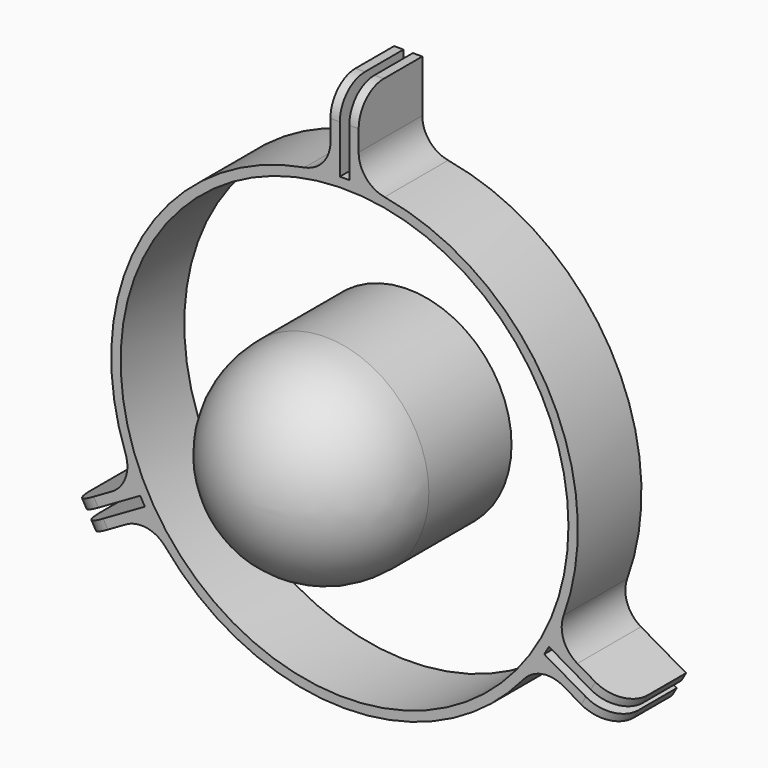
from build123d import *

# Parameters (mm, degrees)
F0_R     = 35.75
F1_DEPTH = 12.7
F2_R     = 5
F3_R     = 5
F4_R     = 16.5
F5_DEPTH = 33
F6_R     = 16.5
F7_T     = -1.5


with BuildPart() as f1:
    # F0 (on Front) → F1 (new body)
    with BuildSketch(Plane.XZ):
        with BuildLine():
            Line((-2.25, 49.942449), (-2.25, 37.181985))
            ThreePointArc((-2.25, 37.181985), (-32.259446, 18.625), (-33.325543, -16.642435))
            Line((-33.325543, -16.642435), (-44.376429, -23.022667))
            Line((-44.376429, -23.022667), (-43.626429, -24.321705))
            Line((-43.626429, -24.321705), (-32.627907, -17.971705))
            ThreePointArc((-32.627907, -17.971705), (-32.259446, -18.625), (-31.877907, -19.270744))
            Line((-31.877907, -19.270744), (-42.876429, -25.620744))
            Line((-42.876429, -25.620744), (-42.126429, -26.919782))
            Line((-42.126429, -26.919782), (-31.075543, -20.53955))
            ThreePointArc((-31.075543, -20.53955), (0, -37.25), (31.075543, -20.53955))
            Line((31.075543, -20.53955), (42.126429, -26.919782))
            Line((42.126429, -26.919782), (42.876429, -25.620744))
            Line((42.876429, -25.620744), (31.877907, -19.270744))
            ThreePointArc((31.877907, -19.270744), (32.259446, -18.625), (32.627907, -17.971705))
            Line((32.627907, -17.971705), (43.626429, -24.321705))
            Line((43.626429, -24.321705), (44.376429, -23.022667))
            Line((44.376429, -23.022667), (33.325543, -16.642435))
            ThreePointArc((33.325543, -16.642435), (32.259446, 18.625), (2.25, 37.181985))
            Line((2.25, 37.181985), (2.25, 49.942449))
            Line((2.25, 49.942449), (0.75, 49.942449))
            Line((0.75, 49.942449), (0.75, 37.242449))
            ThreePointArc((0.75, 37.242449), (0, 37.25), (-0.75, 37.242449))
            Line((-0.75, 37.242449), (-0.75, 49.942449))
            Line((-0.75, 49.942449), (-2.25, 49.942449))
        make_face()
        Circle(F0_R, mode=Mode.SUBTRACT)
    extrude(amount=F1_DEPTH)

    # F2
    f2_edges = [f1.edges().sort_by_distance(p)[0] for p in [
        (31.075543, -6.35, -20.53955),
        (-31.075543, -6.35, -20.53955),
        (-33.325543, -6.35, -16.642435),
        (-2.25, -6.35, 37.181985),
        (2.25, -6.35, 37.181985),
        (33.325543, -6.35, -16.642435),
    ]]
    fillet(f2_edges, radius=F2_R)

    # F3
    f3_edges = [f1.edges().sort_by_distance(p)[0] for p in [
        (44.001429, -12.7, -23.672186),
        (42.501429, -12.7, -26.270263),
        (-42.501429, -12.7, -26.270263),
        (-44.001429, -12.7, -23.672186),
        (-1.5, -12.7, 49.942449),
        (1.5, -12.7, 49.942449),
    ]]
    fillet(f3_edges, radius=F3_R)


with BuildPart() as f5:
    # F4 (on Front) → F5 (new body)
    with BuildSketch(Plane.XZ):
        Circle(F4_R)
    extrude(amount=F5_DEPTH)

    # F6
    f6_edges = [f5.edges().sort_by_distance(p)[0] for p in [
        (-16.5, -33, 0),
    ]]
    fillet(f6_edges, radius=F6_R)

    # F7
    f7_openings = [f5.faces().sort_by_distance(p)[0] for p in [
        (0, 0, 0),
    ]]
    offset(amount=F7_T, openings=f7_openings)


solid = Compound([f1.part, f5.part])
